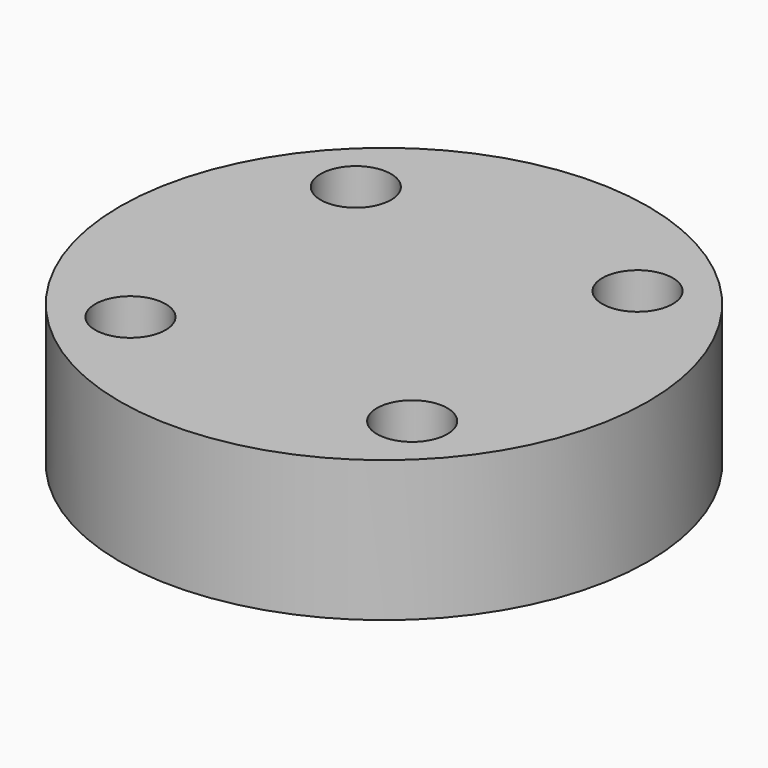
from build123d import *

# Parameters (mm, degrees)
CYLINDER1294_R     = 1
CYLINDER1294_DEPTH = 20
CYLINDER1299_R     = 1
CYLINDER1299_DEPTH = 20
CYLINDER1289_R     = 1
CYLINDER1289_DEPTH = 20
CYLINDER1301_R     = 1
CYLINDER1301_DEPTH = 20
CYLINDER1286_R     = 7.5
CYLINDER1286_DEPTH = 4


with BuildPart() as obj1:
    # Cylinder1294 → Cylinder1294 (new body)
    with BuildSketch(Plane(origin=(4, -4, -88), x_dir=(0, 1, 0), z_dir=(0, 0, 1))):
        Circle(CYLINDER1294_R)
    extrude(amount=CYLINDER1294_DEPTH)


with BuildPart() as obj2:
    # Cylinder1299 → Cylinder1299 (new body)
    with BuildSketch(Plane(origin=(4, 4, -88), x_dir=(-1, 0, 0), z_dir=(0, 0, 1))):
        Circle(CYLINDER1299_R)
    extrude(amount=CYLINDER1299_DEPTH)


with BuildPart() as obj3:
    # Cylinder1289 → Cylinder1289 (new body)
    with BuildSketch(Plane(origin=(-4, 4, -88), x_dir=(0, -1, 0), z_dir=(0, 0, 1))):
        Circle(CYLINDER1289_R)
    extrude(amount=CYLINDER1289_DEPTH)


with BuildPart() as compound893:
    # Cylinder1301 → Cylinder1301 (new body)
    with BuildSketch(Plane(origin=(-4, -4, -88), x_dir=(1, 0, 0), z_dir=(0, 0, 1))):
        Circle(CYLINDER1301_R)
    extrude(amount=CYLINDER1301_DEPTH)

    # Compound893: union obj1, obj2, obj3
    add(obj1.part)
    add(obj2.part)
    add(obj3.part)


with BuildPart() as compound893_1:
    # Compound893 placement: moved
    add(compound893.part.moved(Location((0, 0, 91))))


with BuildPart() as cut441:
    # Cylinder1286 → Cylinder1286 (new body)
    with BuildSketch(Plane.XY.offset(15)):
        Circle(CYLINDER1286_R)
    extrude(amount=CYLINDER1286_DEPTH)

    # Cut441: cut Compound893
    add(compound893_1.part, mode=Mode.SUBTRACT)


solid = cut441.part
